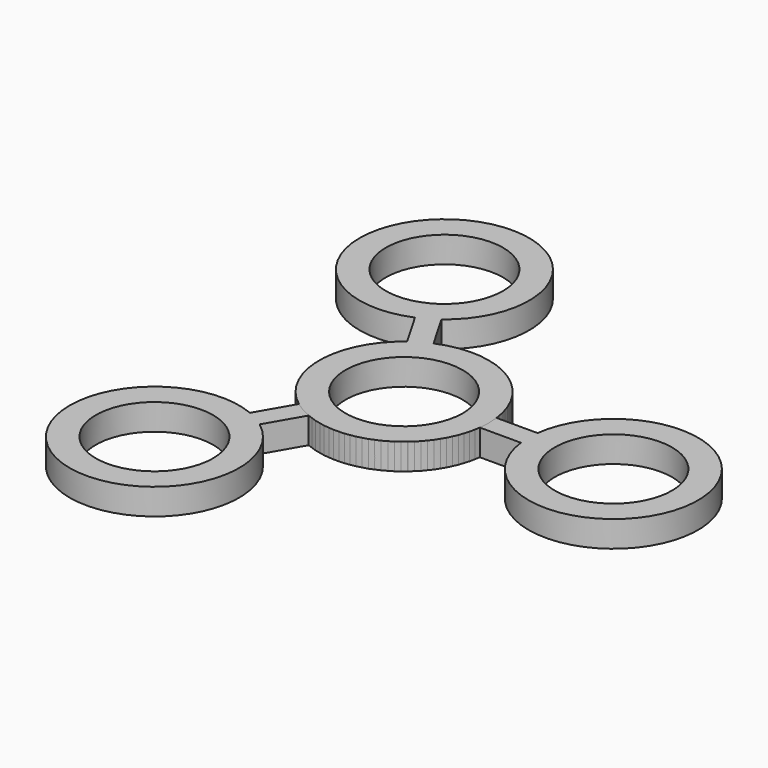
from build123d import *

# Parameters (mm, degrees)
F0_R     = 16.2
F0_R_2   = 11.2
F1_DEPTH = 5
F2_R     = 11.2
F3_DEPTH = 5
F4_COUNT = 3


with BuildPart() as f1:
    # F0 (on Top) → F1 (new body)
    with BuildSketch(Plane.XY):
        Circle(F0_R)
        Circle(F0_R_2, mode=Mode.SUBTRACT)
    extrude(amount=F1_DEPTH)

    # F2 (on Top) → F3 (join)
    with BuildSketch(Plane.XY):
        with BuildLine():
            Line((12.507437, 2), (12.507437, -2))
            Line((12.507437, -2), (23.923931, -2))
            ThreePointArc((23.923931, -2), (56.2, 0), (23.923931, 2))
            Line((23.923931, 2), (12.507437, 2))
        make_face()
        with Locations((40, 0)):
            Circle(F2_R, mode=Mode.SUBTRACT)
    extrude(amount=F3_DEPTH)


with BuildPart() as f4_1:
    # F4: instance of F1
    add(f1.part.rotate(Axis((0, 0, 5), (0, 0, -1)), 1 * 360 / F4_COUNT))


with BuildPart() as f4_2:
    # F4: instance of F1
    add(f1.part.rotate(Axis((0, 0, 5), (0, 0, -1)), 2 * 360 / F4_COUNT))


solid = Compound([f1.part, f4_1.part, f4_2.part])
